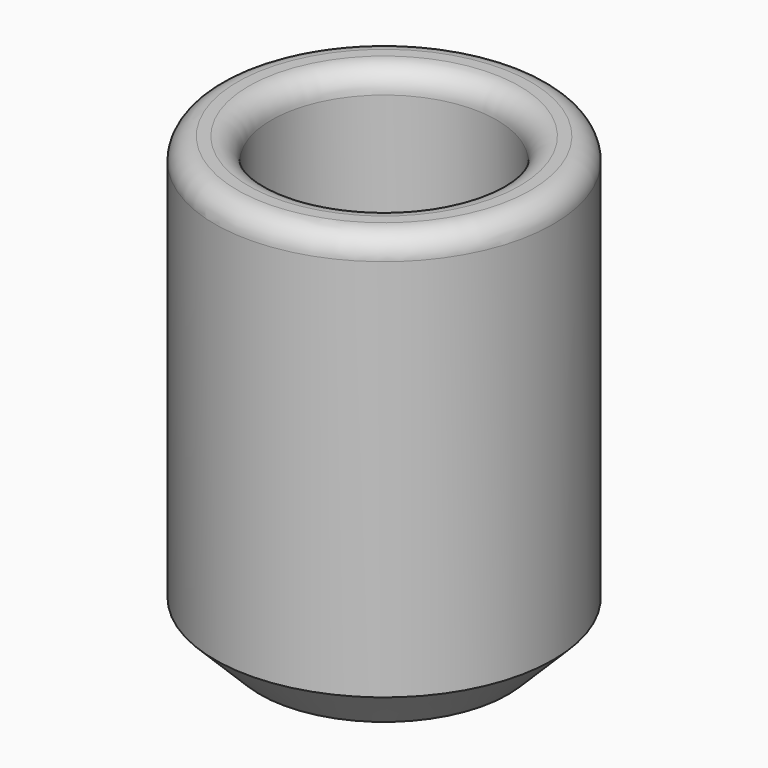
from build123d import *

# Parameters (mm, degrees)
F0_R     = 7.5
F1_DEPTH = 20
F2_R     = 5
F3_DEPTH = 16
F4_SIZE  = 2
F5_R     = 1
F6_R     = 3


with BuildPart() as f1:
    # F0 (on Top) → F1 (new body)
    with BuildSketch(Plane.XY):
        Circle(F0_R)
    extrude(amount=F1_DEPTH)

    # F2 (on face) → F3 (cut)
    with BuildSketch(Plane.XY.offset(20)):
        Circle(F2_R)
    extrude(amount=-F3_DEPTH, mode=Mode.SUBTRACT)

    # F4
    f4_edges = [f1.edges().sort_by_distance(p)[0] for p in [
        (-7.5, 0, 0),
    ]]
    chamfer(f4_edges, length=F4_SIZE)

    # F5
    f5_edges = [f1.edges().sort_by_distance(p)[0] for p in [
        (-7.5, 0, 20),
        (-5, 0, 20),
    ]]
    fillet(f5_edges, radius=F5_R)

    # F6
    f6_edges = [f1.edges().sort_by_distance(p)[0] for p in [
        (-5, 0, 4),
    ]]
    fillet(f6_edges, radius=F6_R)


solid = f1.part
